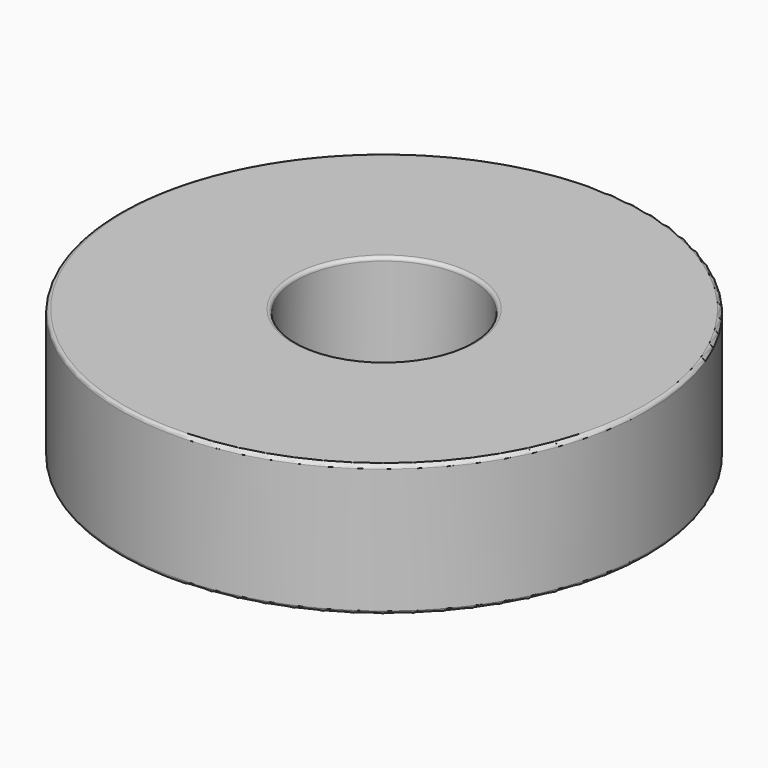
from build123d import *

# Parameters (mm, degrees)
F0_R     = 19.05
F0_R_2   = 6.35
F1_DEPTH = 9.525
F2_R     = 0.254


with BuildPart() as f1:
    # F0 (on Top) → F1 (new body)
    with BuildSketch(Plane.XY):
        Circle(F0_R)
        Circle(F0_R_2, mode=Mode.SUBTRACT)
    extrude(amount=F1_DEPTH)

    # F2
    f2_edges = [f1.edges().sort_by_distance(p)[0] for p in [
        (19.05, 0, 4.7625),
        (-19.05, 0, 0),
        (-19.05, 0, 9.525),
        (6.35, 0, 4.7625),
        (-6.35, 0, 0),
        (-6.35, 0, 9.525),
    ]]
    fillet(f2_edges, radius=F2_R)


solid = f1.part
